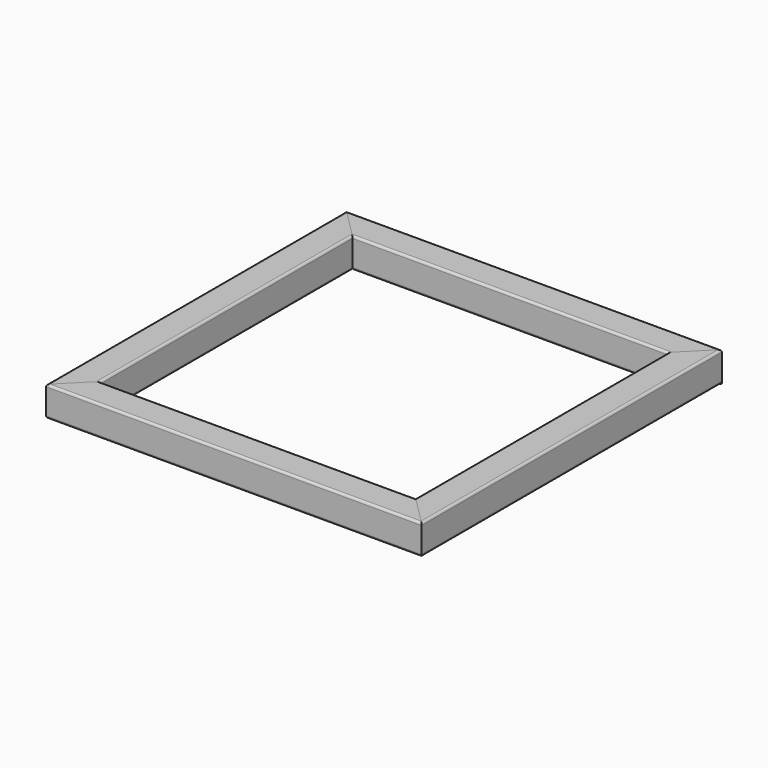
from build123d import *

# Parameters (mm, degrees)
F1_DEPTH  = 40
F2_R      = 3
F4_DEPTH  = 40
F5_R      = 3
F7_DEPTH  = 40
F8_R      = 3
F10_DEPTH = 40
F11_R     = 3


with BuildPart() as f1:
    # F0 (on Top) → F1 (new body)
    with BuildSketch(Plane.XY):
        Polygon((250.000002, 250), (-249.999998, 250), (-209.999998, 210), (210.000002, 210), align=None)
    extrude(amount=F1_DEPTH)

    # F2
    f2_edges = [f1.edges().sort_by_distance(p)[0] for p in [
        (2e-06, 250, 40),
        (2e-06, 210, 40),
        (2e-06, 210, 0),
        (-229.999998, 230, 0),
    ]]
    fillet(f2_edges, radius=F2_R)


with BuildPart() as f4:
    # F3 (on Top) → F4 (new body)
    with BuildSketch(Plane.XY):
        Polygon((-209.999998, 210), (-249.999998, 250), (-249.999998, -250), (-209.999998, -210), align=None)
    extrude(amount=F4_DEPTH)

    # F5
    f5_edges = [f4.edges().sort_by_distance(p)[0] for p in [
        (-209.999998, 0, 40),
        (-209.999998, 0, 0),
        (-249.999998, 0, 40),
        (-249.999998, 0, 0),
    ]]
    fillet(f5_edges, radius=F5_R)


with BuildPart() as f7:
    # F6 (on Top) → F7 (new body)
    with BuildSketch(Plane.XY):
        Polygon((-209.999998, -210), (-249.999998, -250), (250.000002, -250), (210.000002, -210), align=None)
    extrude(amount=F7_DEPTH)

    # F8
    f8_edges = [f7.edges().sort_by_distance(p)[0] for p in [
        (2e-06, -250, 40),
        (2e-06, -210, 40),
        (2e-06, -250, 0),
        (2e-06, -210, 0),
    ]]
    fillet(f8_edges, radius=F8_R)


with BuildPart() as f10:
    # F9 (on Top) → F10 (new body)
    with BuildSketch(Plane.XY):
        Polygon((210.000002, -210), (250.000002, -250), (250.000002, 250), (210.000002, 210), align=None)
    extrude(amount=F10_DEPTH)

    # F11
    f11_edges = [f10.edges().sort_by_distance(p)[0] for p in [
        (210.000002, 0, 40),
        (250.000002, 0, 40),
        (250.000002, 0, 0),
        (210.000002, 0, 0),
    ]]
    fillet(f11_edges, radius=F11_R)


solid = Compound([f1.part, f4.part, f7.part, f10.part])
